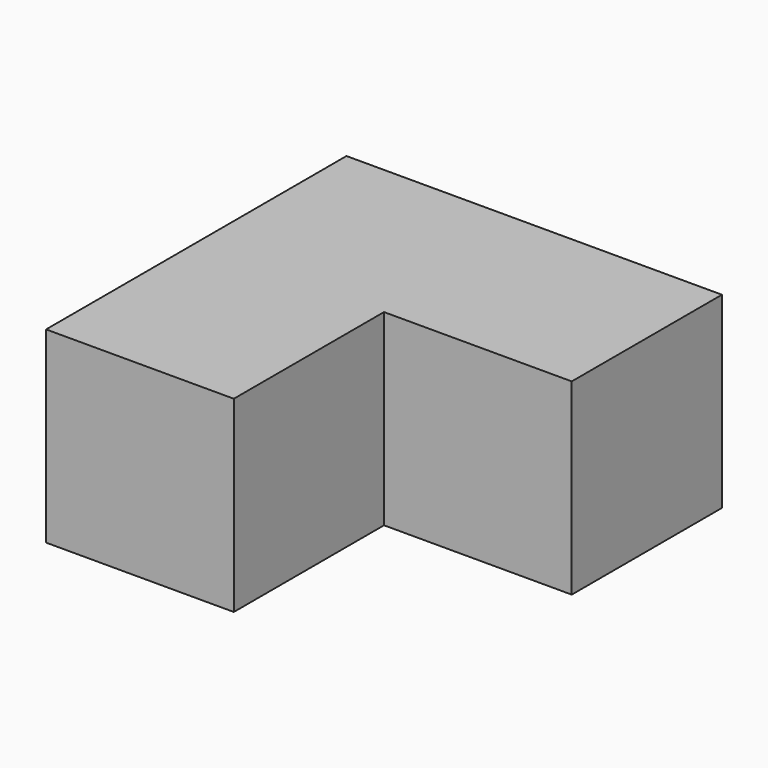
from build123d import *

# Parameters (mm, degrees)
F0_W     = 19.05
F0_H     = 19.05
F1_DEPTH = 38.1
F2_DEPTH = 19.05
F3_W     = 19.05
F3_H     = 19.05
F4_DEPTH = 25.4


with BuildPart() as f1:
    # F0 (on Front) → F1 (new body)
    with BuildSketch(Plane.XZ):
        with Locations((-25.597605, 27.221616)):
            Rectangle(F0_W, F0_H)
        with Locations((-6.547605, 27.221616)):
            Rectangle(F0_W, F0_H)
    extrude(amount=F1_DEPTH)

    # F0 (on Front) → F2 (join)
    with BuildSketch(Plane.XZ):
        with Locations((-6.547605, 27.221616)):
            Rectangle(F0_W, F0_H)
    extrude(amount=F2_DEPTH)

    # F3 (on face) → F4 (cut)
    with BuildSketch(Plane.XY.offset(36.746616)):
        with Locations((-6.547605, -28.575)):
            Rectangle(F3_W, F3_H)
    extrude(amount=-F4_DEPTH, mode=Mode.SUBTRACT)


solid = f1.part
